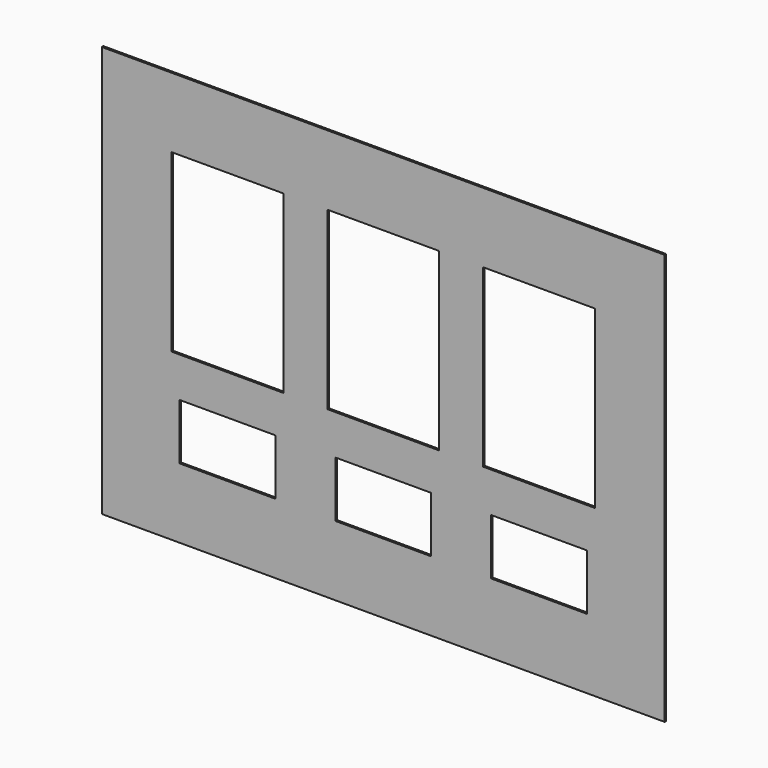
from build123d import *

# Parameters (mm, degrees)
F0_W     = 447.675
F0_H     = 327.025
F0_W_2   = 76.2
F0_H_2   = 44.45
F0_W_3   = 88.9
F0_H_3   = 139.7
F1_DEPTH = 1.5875


with BuildPart() as f1:
    # F0 (on Front) → F1 (new body)
    with BuildSketch(Plane.XZ):
        Rectangle(F0_W, F0_H)
        with Locations((-123.825, -85.725)):
            Rectangle(F0_W_2, F0_H_2, mode=Mode.SUBTRACT)
        with Locations((0, -85.725)):
            Rectangle(F0_W_2, F0_H_2, mode=Mode.SUBTRACT)
        with Locations((123.825, -85.725)):
            Rectangle(F0_W_2, F0_H_2, mode=Mode.SUBTRACT)
        with Locations((-123.825, 38.1)):
            Rectangle(F0_W_3, F0_H_3, mode=Mode.SUBTRACT)
        with Locations((0, 38.1)):
            Rectangle(F0_W_3, F0_H_3, mode=Mode.SUBTRACT)
        with Locations((123.825, 38.1)):
            Rectangle(F0_W_3, F0_H_3, mode=Mode.SUBTRACT)
    extrude(amount=F1_DEPTH)


solid = f1.part
